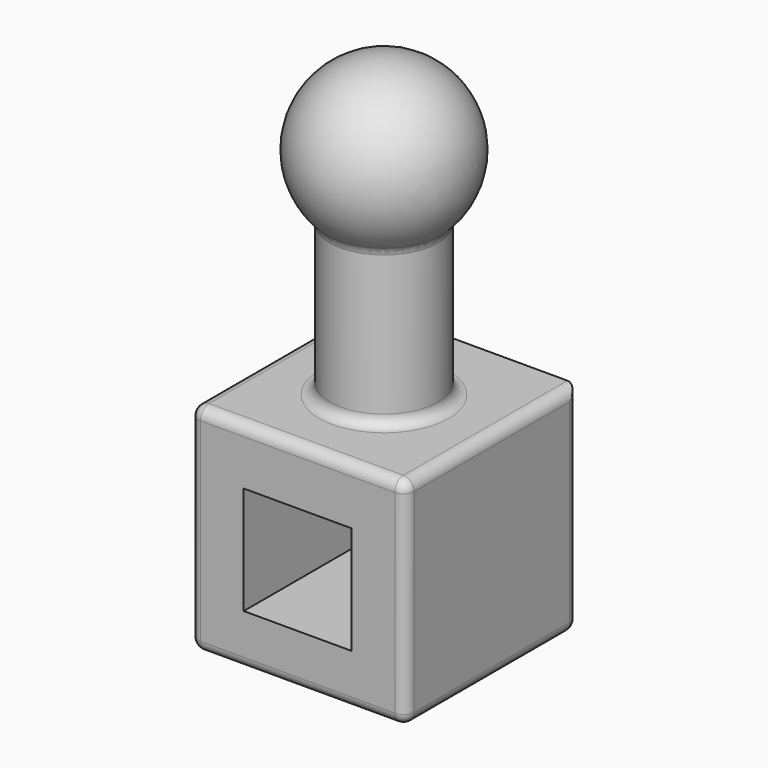
from build123d import *

# Parameters (mm, degrees)
F0_W     = 101.6
F0_H     = 101.6
F1_DEPTH = 101.6
F2_R     = 25.4
F3_DEPTH = 101.6
F6_W     = 50.8
F6_H     = 50.8
F7_DEPTH = 101.6
F8_R     = 5.08


with BuildPart() as f1:
    # F0 (on Top) → F1 (new body)
    with BuildSketch(Plane.XY):
        Rectangle(F0_W, F0_H)
    extrude(amount=F1_DEPTH)

    # F2 (on face) → F3 (join)
    with BuildSketch(Plane.XY.offset(101.6)):
        Circle(F2_R)
    extrude(amount=F3_DEPTH)

    # F4 (on face) → F5 (revolve)
    with BuildSketch(Plane.XY.offset(203.2)):
        with BuildLine():
            Line((0, 38.1), (0, -38.1))
            ThreePointArc((0, -38.1), (38.1, 0), (0, 38.1))
        make_face()
    revolve(axis=Axis((0, 0, 203.2), (0, -1, 0)))

    # F6 (on face) → F7 (cut)
    with BuildSketch(Plane.XZ.offset(50.8)):
        with Locations((0, 49.6485456824)):
            Rectangle(F6_W, F6_H)
    extrude(amount=-F7_DEPTH, mode=Mode.SUBTRACT)

    # F8
    f8_edges = [f1.edges().sort_by_distance(p)[0] for p in [
        (0, -50.8, 101.6),
        (50.8, 0, 101.6),
        (50.8, 0, 0),
        (50.8, -50.8, 50.8),
        (0, -50.8, 0),
        (-50.8, -50.8, 50.8),
        (50.8, 50.8, 50.8),
        (0, 50.8, 0),
        (-50.8, 0, 0),
        (-50.8, 50.8, 50.8),
        (-50.8, 0, 101.6),
        (-25.4, 0, 101.6),
        (-25.4, 0, 174.801937),
    ]]
    fillet(f8_edges, radius=F8_R)


solid = f1.part
